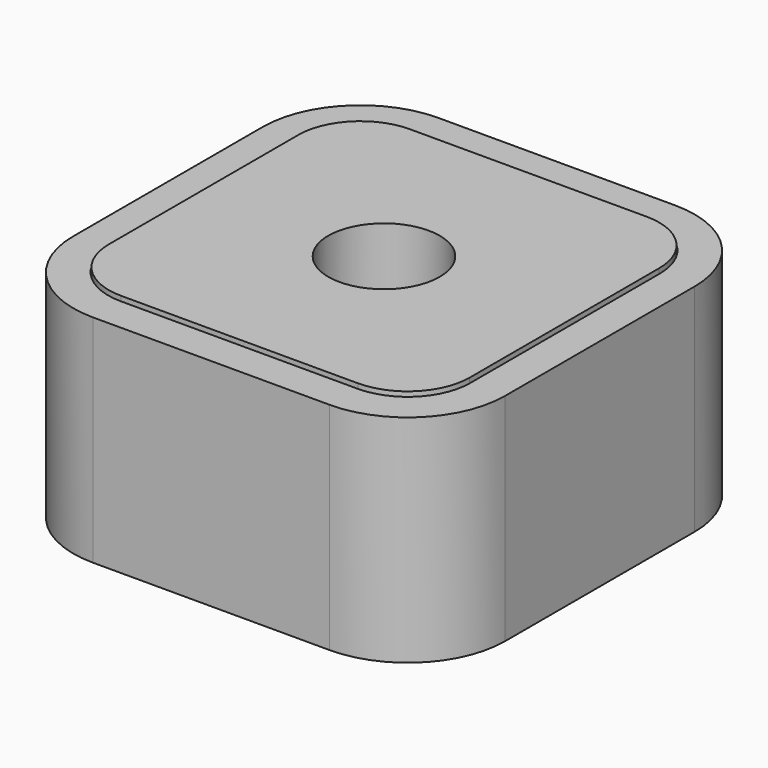
from build123d import *

# Parameters (mm, degrees)
F1_DEPTH  = 12.5
F3_DEPTH  = 9
F5_R      = 5
F6_DEPTH  = 3
F8_R      = 4
F9_DEPTH  = 6.3
F11_DEPTH = 3


with BuildPart() as f1:
    # F0 (on Top) → F1 (new body)
    with BuildSketch(Plane.XY):
        with BuildLine():
            Line((8.5, 15.5), (-8.5, 15.5))
            ThreePointArc((-8.5, 15.5), (-13.4497474683, 13.4497474683), (-15.5, 8.5))
            Line((-15.5, 8.5), (-15.5, -8.5))
            ThreePointArc((-15.5, -8.5), (-13.4497474683, -13.4497474683), (-8.5, -15.5))
            Line((-8.5, -15.5), (8.5, -15.5))
            ThreePointArc((8.5, -15.5), (13.4497474683, -13.4497474683), (15.5, -8.5))
            Line((15.5, -8.5), (15.5, 8.5))
            ThreePointArc((15.5, 8.5), (13.4497474683, 13.4497474683), (8.5, 15.5))
        make_face()
        with BuildLine():
            ThreePointArc((-10.5, 8.5), (-9.9142135624, 9.9142135624), (-8.5, 10.5))
            Line((-8.5, 10.5), (8.5, 10.5))
            ThreePointArc((8.5, 10.5), (9.9142135624, 9.9142135624), (10.5, 8.5))
            Line((10.5, 8.5), (10.5, -8.5))
            ThreePointArc((10.5, -8.5), (9.9142135624, -9.9142135624), (8.5, -10.5))
            Line((8.5, -10.5), (-8.5, -10.5))
            ThreePointArc((-8.5, -10.5), (-9.9142135624, -9.9142135624), (-10.5, -8.5))
            Line((-10.5, -8.5), (-10.5, 8.5))
        make_face(mode=Mode.SUBTRACT)
    extrude(amount=F1_DEPTH)

    # F2 (on face) → F3 (cut)
    with BuildSketch(Plane.XY.offset(12.5)):
        with BuildLine():
            Line((8.5, 13), (-8.5, 13))
            ThreePointArc((-8.5, 13), (-11.6819805153, 11.6819805153), (-13, 8.5))
            Line((-13, 8.5), (-13, -8.5))
            ThreePointArc((-13, -8.5), (-11.6819805153, -11.6819805153), (-8.5, -13))
            Line((-8.5, -13), (8.5, -13))
            ThreePointArc((8.5, -13), (11.6819805153, -11.6819805153), (13, -8.5))
            Line((13, -8.5), (13, 8.5))
            ThreePointArc((13, 8.5), (11.6819805153, 11.6819805153), (8.5, 13))
        make_face()
        with BuildLine():
            ThreePointArc((-10.5, 8.5), (-9.9142135624, 9.9142135624), (-8.5, 10.5))
            Line((-8.5, 10.5), (8.5, 10.5))
            ThreePointArc((8.5, 10.5), (9.9142135624, 9.9142135624), (10.5, 8.5))
            Line((10.5, 8.5), (10.5, -8.5))
            ThreePointArc((10.5, -8.5), (9.9142135624, -9.9142135624), (8.5, -10.5))
            Line((8.5, -10.5), (-8.5, -10.5))
            ThreePointArc((-8.5, -10.5), (-9.9142135624, -9.9142135624), (-10.5, -8.5))
            Line((-10.5, -8.5), (-10.5, 8.5))
        make_face(mode=Mode.SUBTRACT)
    extrude(amount=-F3_DEPTH, mode=Mode.SUBTRACT)

    # F10 (on face) → F11 (join)
    with BuildSketch(Plane(origin=(0, 0, 0), x_dir=(1, 0, 0), z_dir=(0, 0, -1))):
        with BuildLine():
            ThreePointArc((-15.5, -8.5), (-13.4497474683, -13.4497474683), (-8.5, -15.5))
            Line((-8.5, -15.5), (8.5, -15.5))
            ThreePointArc((8.5, -15.5), (13.4497474683, -13.4497474683), (15.5, -8.5))
            Line((15.5, -8.5), (15.5, 8.5))
            ThreePointArc((15.5, 8.5), (13.4497474683, 13.4497474683), (8.5, 15.5))
            Line((8.5, 15.5), (-8.5, 15.5))
            ThreePointArc((-8.5, 15.5), (-13.4497474683, 13.4497474683), (-15.5, 8.5))
            Line((-15.5, 8.5), (-15.5, -8.5))
        make_face()
        with BuildLine():
            ThreePointArc((-10.5, 8.5), (-9.9142135624, 9.9142135624), (-8.5, 10.5))
            Line((-8.5, 10.5), (8.5, 10.5))
            ThreePointArc((8.5, 10.5), (9.9142135624, 9.9142135624), (10.5, 8.5))
            Line((10.5, 8.5), (10.5, -8.5))
            ThreePointArc((10.5, -8.5), (9.9142135624, -9.9142135624), (8.5, -10.5))
            Line((8.5, -10.5), (-8.5, -10.5))
            ThreePointArc((-8.5, -10.5), (-9.9142135624, -9.9142135624), (-10.5, -8.5))
            Line((-10.5, -8.5), (-10.5, 8.5))
        make_face(mode=Mode.SUBTRACT)
    extrude(amount=F11_DEPTH)


with BuildPart() as f6:
    # F5 (on offset) → F6 (new body)
    with BuildSketch(Plane.XY.offset(3.51)):
        with BuildLine():
            Line((8.5, 12.95), (-8.5, 12.95))
            ThreePointArc((-8.5, 12.95), (-11.6466251763, 11.6466251763), (-12.95, 8.5))
            Line((-12.95, 8.5), (-12.95, -8.5))
            ThreePointArc((-12.95, -8.5), (-11.6466251763, -11.6466251763), (-8.5, -12.95))
            Line((-8.5, -12.95), (8.5, -12.95))
            ThreePointArc((8.5, -12.95), (11.6466251763, -11.6466251763), (12.95, -8.5))
            Line((12.95, -8.5), (12.95, 8.5))
            ThreePointArc((12.95, 8.5), (11.6466251763, 11.6466251763), (8.5, 12.95))
        make_face()
        Circle(F5_R, mode=Mode.SUBTRACT)
    extrude(amount=F6_DEPTH)


with BuildPart() as f9:
    # F8 (on offset) → F9 (new body)
    with BuildSketch(Plane.XY.offset(6.52)):
        with BuildLine():
            ThreePointArc((12.95, 8.5), (11.6466251763, 11.6466251763), (8.5, 12.95))
            Line((8.5, 12.95), (-8.5, 12.95))
            ThreePointArc((-8.5, 12.95), (-11.6466251763, 11.6466251763), (-12.95, 8.5))
            Line((-12.95, 8.5), (-12.95, -8.5))
            ThreePointArc((-12.95, -8.5), (-11.6466251763, -11.6466251763), (-8.5, -12.95))
            Line((-8.5, -12.95), (8.5, -12.95))
            ThreePointArc((8.5, -12.95), (11.6466251763, -11.6466251763), (12.95, -8.5))
            Line((12.95, -8.5), (12.95, 8.5))
        make_face()
        Circle(F8_R, mode=Mode.SUBTRACT)
    extrude(amount=F9_DEPTH)


solid = Compound([f1.part, f6.part, f9.part])
